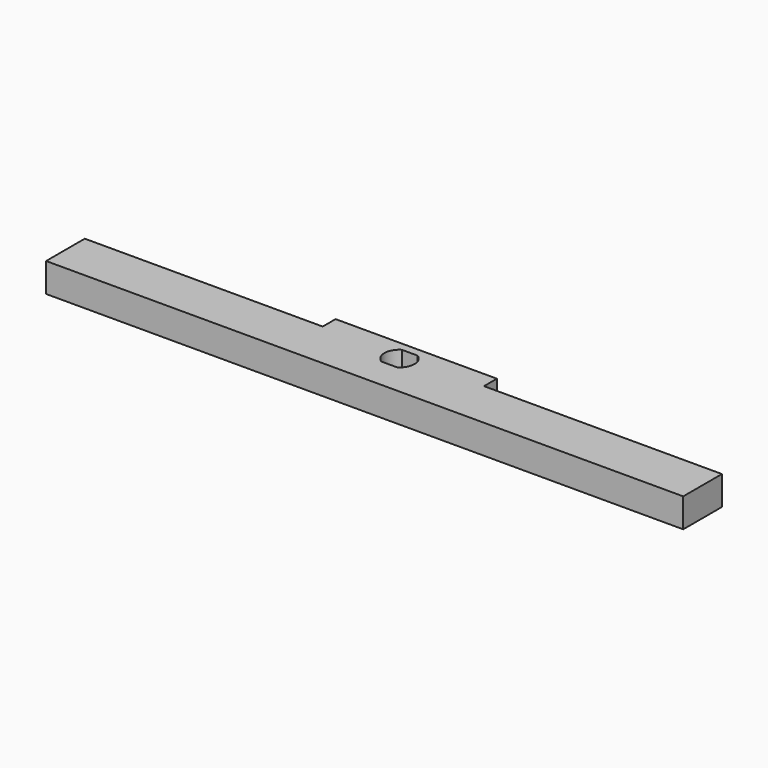
from build123d import *

# Parameters (mm, degrees)
PAD_DEPTH    = 18
POCKET_DEPTH = 18


with BuildPart() as part:
    # Sketch → Pad (new body)
    with BuildSketch(Plane.XY):
        Polygon((0, 0), (-197.5, 0), (-197.5, 30), (-50, 30), (-50, 40), (0, 40), align=None)
    pad = extrude(amount=PAD_DEPTH)

    # Mirrored: Pad across Sketch V_Axis
    add(pad.mirror(Plane(origin=(0, 0, 0), x_dir=(0, 0, 1), z_dir=(1, 0, 0))))

    # Sketch001 (on DatumPlane) → Pocket (cut)
    with BuildSketch(Plane.XY.offset(18)):
        with BuildLine():
            ThreePointArc((-4.907138, 34.9), (-9.3, 27), (-4.907138, 19.1))
            Line((-4.907138, 19.1), (4.907138, 19.1))
            ThreePointArc((4.907138, 19.1), (9.3, 27), (4.907138, 34.9))
            Line((-4.907138, 34.9), (4.907138, 34.9))
        make_face()
    extrude(amount=-POCKET_DEPTH, mode=Mode.SUBTRACT)


solid = part.part
